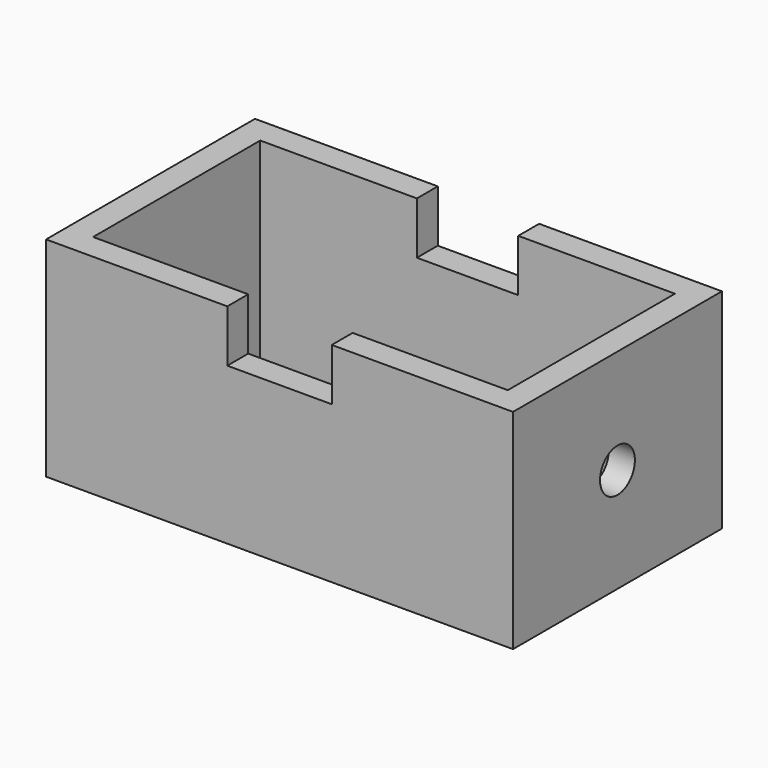
from build123d import *

# Parameters (mm, degrees)
F1_DEPTH = 50.8
F2_W     = 12.7
F2_H     = 12.7
F4_DEPTH = 25.4
F3_W     = 12.7
F3_H     = 12.7
F5_DEPTH = 25.4
F6_R     = 5.295209
F7_DEPTH = 25.4


with BuildPart() as f1:
    # F0 (on Top) → F1 (new body)
    with BuildSketch(Plane.XY):
        Polygon((-50.420101, -10.057684), (-50.420101, 40.742316), (0.379899, 40.742316), (0.379899, 47.092316), (-56.770101, 47.092316), (-56.770101, 15.342316), (-56.770101, -16.407684), (0, -16.407684), (0, -10.057684), align=None)
    extrude(amount=F1_DEPTH)

    # F2 (on face) → F4 (cut)
    with BuildSketch(Plane.XZ.offset(16.407684)):
        with Locations((-6.35, 44.45)):
            Rectangle(F2_W, F2_H)
    extrude(amount=-F4_DEPTH, mode=Mode.SUBTRACT)

    # F3 (on face) → F5 (cut)
    with BuildSketch(Plane(origin=(0, 47.092316, 0), x_dir=(-1, 0, 0), z_dir=(0, 1, 0))):
        with Locations((5.970101, 44.45)):
            Rectangle(F3_W, F3_H)
    extrude(amount=-F5_DEPTH, mode=Mode.SUBTRACT)

    # F6 (on face) → F7 (cut)
    with BuildSketch(Plane(origin=(-56.770101, 0, 0), x_dir=(0, -1, 0), z_dir=(-1, 0, 0))):
        with Locations((-15.342316, 25.4)):
            Circle(F6_R)
    extrude(amount=-F7_DEPTH, mode=Mode.SUBTRACT)

    # F8: F1 across face


with BuildPart() as f1_1:
    add(f1.part)
    add(f1.part.mirror(Plane(origin=(0, -13.232684, 19.05), x_dir=(0, 1, 0), z_dir=(1, 0, 0))))


solid = f1_1.part
